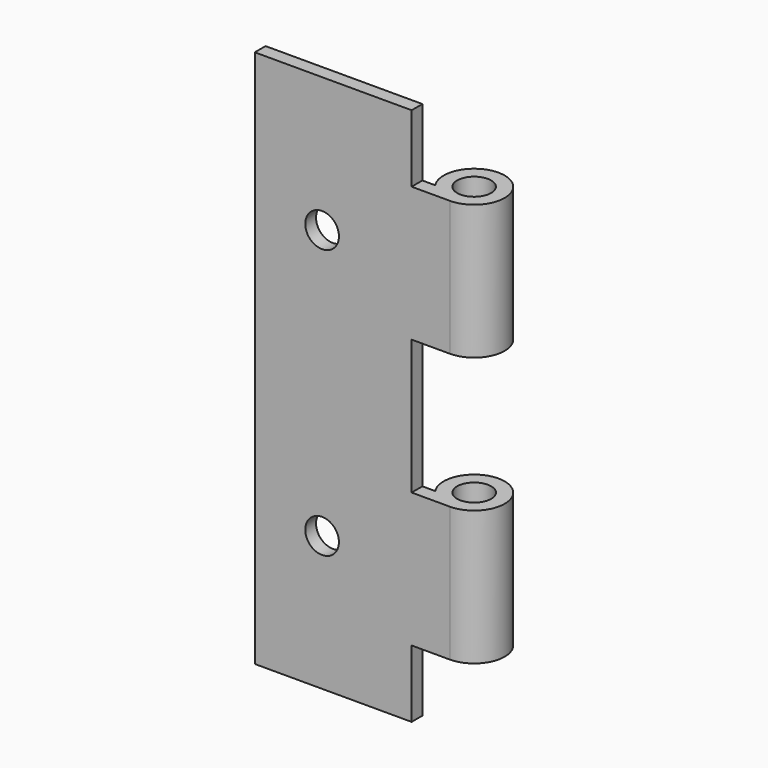
from build123d import *

# Parameters (mm, degrees)
F1_DEPTH = 50.8
F2_W     = 25.4
F2_H     = 25.4
F2_H_2   = 12.7
F2_R     = 3.175
F3_DEPTH = 11.5072
F4_R     = 3.2131
F5_DEPTH = 88.901


with BuildPart() as f1:
    # F0 (on Top) → F1 (new body, symmetric)
    with BuildSketch(Plane.XY):
        with BuildLine():
            Line((-36.7919, -5.7531), (0, -5.7531))
            ThreePointArc((0, -5.7531), (2.703042, 5.078555), (-4.772227, -3.2131))
            Line((-4.772227, -3.2131), (-36.7919, -3.2131))
            Line((-36.7919, -3.2131), (-36.7919, -5.7531))
        make_face()
    extrude(amount=F1_DEPTH, both=True)

    # F2 (on face) → F3 (cut, through all)
    with BuildSketch(Plane.XZ.offset(5.7531)):
        with Locations((5.4991, 0)):
            Rectangle(F2_W, F2_H)
        with Locations((5.4991, 44.45)):
            Rectangle(F2_W, F2_H_2)
        with Locations((5.4991, -44.45)):
            Rectangle(F2_W, F2_H_2)
        with Locations((-24.0919, 25.4)):
            Circle(F2_R)
        with Locations((-24.0919, -25.4)):
            Circle(F2_R)
    extrude(amount=-F3_DEPTH, mode=Mode.SUBTRACT)

    # F4 (on face) → F5 (cut, through all)
    with BuildSketch(Plane.XY.offset(38.1)):
        Circle(F4_R)
    extrude(amount=-F5_DEPTH, mode=Mode.SUBTRACT)


solid = f1.part
